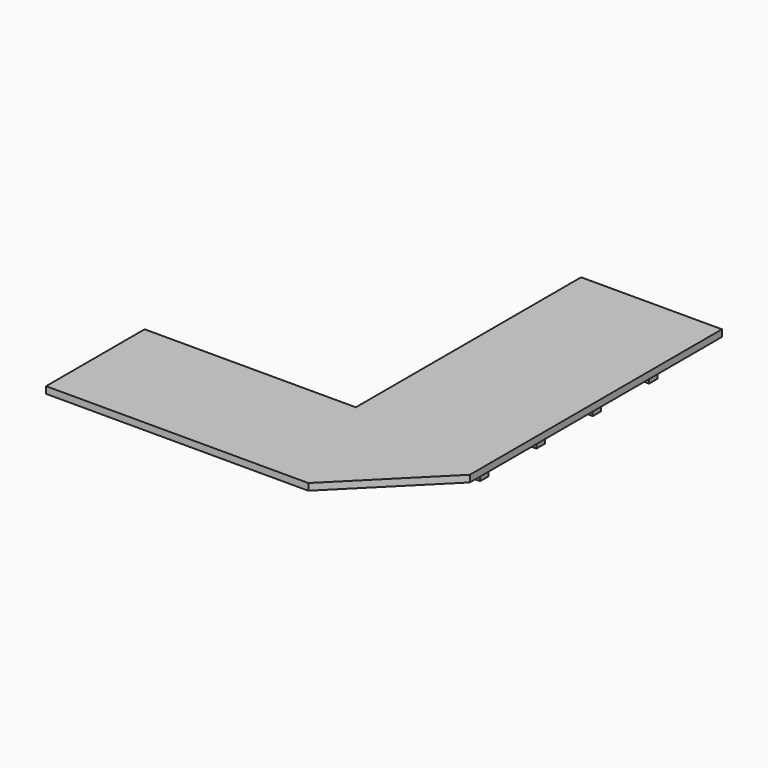
from build123d import *

# Parameters (mm, degrees)
F1_DEPTH = 193
F2_W     = 300
F2_H     = 300
F3_DEPTH = 600


with BuildPart() as f1:
    # F0 (on Top) → F1 (new body)
    with BuildSketch(Plane.XY):
        Polygon((4000, 8000), (0, 8000), (0, 0), (-6000, 0), (-6000, -3500), (1449.747468, -3500), (4000, -949.747468), align=None)
    extrude(amount=-F1_DEPTH)

    # F2 (on Top) → F3 (join)
    with BuildSketch(Plane.XY):
        with Locations((1700, 6000)):
            Rectangle(F2_W, F2_H)
        with Locations((1700, 4000)):
            Rectangle(F2_W, F2_H)
        with Locations((1700, 2000)):
            Rectangle(F2_W, F2_H)
        with Locations((1700, 0)):
            Rectangle(F2_W, F2_H)
        with Locations((3500, 6000)):
            Rectangle(F2_W, F2_H)
        with Locations((3500, 4000)):
            Rectangle(F2_W, F2_H)
        with Locations((3500, 2000)):
            Rectangle(F2_W, F2_H)
        with Locations((3500, 0)):
            Rectangle(F2_W, F2_H)
        with Locations((-5600, -1600)):
            Rectangle(F2_W, F2_H)
    extrude(amount=-F3_DEPTH)


solid = f1.part
